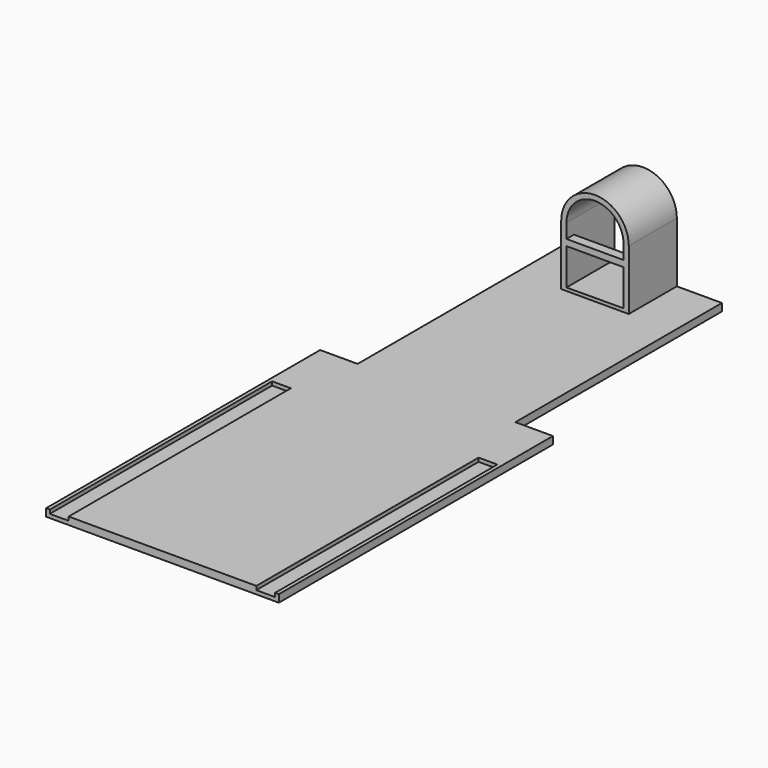
from build123d import *

# Parameters (mm, degrees)
F0_W      = 620
F0_H      = 1600
F1_DEPTH  = 20
F2_W      = 50
F2_H      = 10
F3_DEPTH  = 740
F4_W      = 99.9023592472
F4_H      = 687.5636011362
F5_DEPTH  = 20.001
F7_DEPTH  = 160
F9_DEPTH  = 160
F10_W     = 152.0000243187
F10_H     = 16.7765766382
F11_DEPTH = 25


with BuildPart() as f1:
    # F0 (on Top) → F1 (new body)
    with BuildSketch(Plane.XY):
        Rectangle(F0_W, F0_H)
    extrude(amount=F1_DEPTH)

    # F2 (on face) → F3 (cut)
    with BuildSketch(Plane.XZ.offset(800)):
        with Locations((-275, 15)):
            Rectangle(F2_W, F2_H)
        with Locations((275, 15)):
            Rectangle(F2_W, F2_H)
    extrude(amount=-F3_DEPTH, mode=Mode.SUBTRACT)

    # F4 (on face) → F5 (cut, through all)
    with BuildSketch(Plane.XY.offset(20)):
        with Locations((-260.0488203764, 456.2181994319)):
            Rectangle(F4_W, F4_H)
        with Locations((260.0488203764, 456.2181994319)):
            Rectangle(F4_W, F4_H)
    extrude(amount=-F5_DEPTH, mode=Mode.SUBTRACT)


with BuildPart() as f7:
    # F6 (on face) → F7 (new body)
    with BuildSketch(Plane(origin=(0, 800, 0), x_dir=(-1, 0, 0), z_dir=(0, 1, 0))):
        with BuildLine():
            Line((0, 180), (90, 180))
            ThreePointArc((90, 180), (0, 270), (-90, 180))
            Line((-90, 180), (0, 180))
        make_face()
        with BuildLine():
            Line((90, 20), (90, 180))
            ThreePointArc((90, 180), (63.6396103068, 116.3603896932), (0, 90))
            Line((0, 90), (0, 20))
            Line((0, 20), (90, 20))
        make_face()
        with BuildLine():
            ThreePointArc((0, 90), (63.6396103068, 116.3603896932), (90, 180))
            Line((90, 180), (0, 180))
            Line((0, 180), (0, 90))
        make_face()
        with BuildLine():
            Line((0, 180), (-90, 180))
            ThreePointArc((-90, 180), (-63.6396103068, 116.3603896932), (0, 90))
            Line((0, 90), (0, 180))
        make_face()
        with BuildLine():
            ThreePointArc((0, 90), (-63.6396103068, 116.3603896932), (-90, 180))
            Line((-90, 180), (-90, 20))
            Line((-90, 20), (0, 20))
            Line((0, 20), (0, 90))
        make_face()
    extrude(amount=-F7_DEPTH)

    # F8 (on face) → F9 (cut, through all)
    with BuildSketch(Plane(origin=(0, 800, 0), x_dir=(-1, 0, 0), z_dir=(0, 1, 0))):
        with BuildLine():
            Line((-76.0000121593, 180), (-76.0000121593, 28.9745684713))
            Line((-76.0000121593, 28.9745684713), (76.0000121593, 28.2976105809))
            Line((76.0000121593, 28.2976105809), (76.0000121593, 180))
            ThreePointArc((76.0000121593, 180), (0, 256.0000121593), (-76.0000121593, 180))
        make_face()
    extrude(amount=-F9_DEPTH, mode=Mode.SUBTRACT)

    # F10 (on face) → F11 (join)
    with BuildSketch(Plane.XZ.offset(-640)):
        with Locations((0, 133.7094679475)):
            Rectangle(F10_W, F10_H)
    extrude(amount=-F11_DEPTH)


solid = Compound([f1.part, f7.part])
